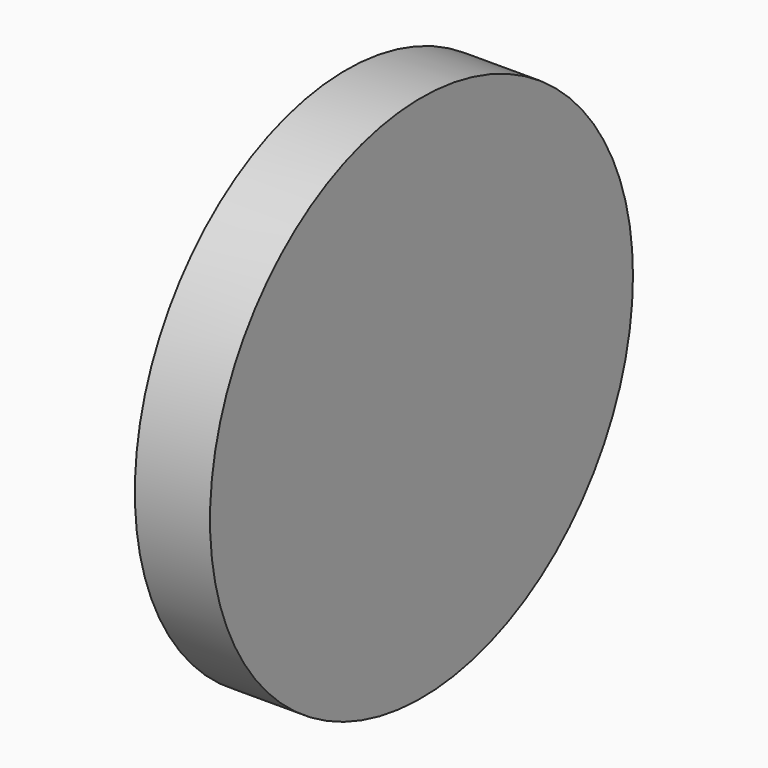
from build123d import *

# Parameters (mm, degrees)
F0_R     = 16.526146
F1_DEPTH = 4.7


with BuildPart() as f1:
    # F0 (on Right) → F1 (new body)
    with BuildSketch(Plane.YZ):
        with Locations((0.150289, 0.450859)):
            Circle(F0_R)
        with Locations((0.150289, 0.450859)):
            Circle(F0_R)
    extrude(amount=F1_DEPTH)


solid = f1.part
